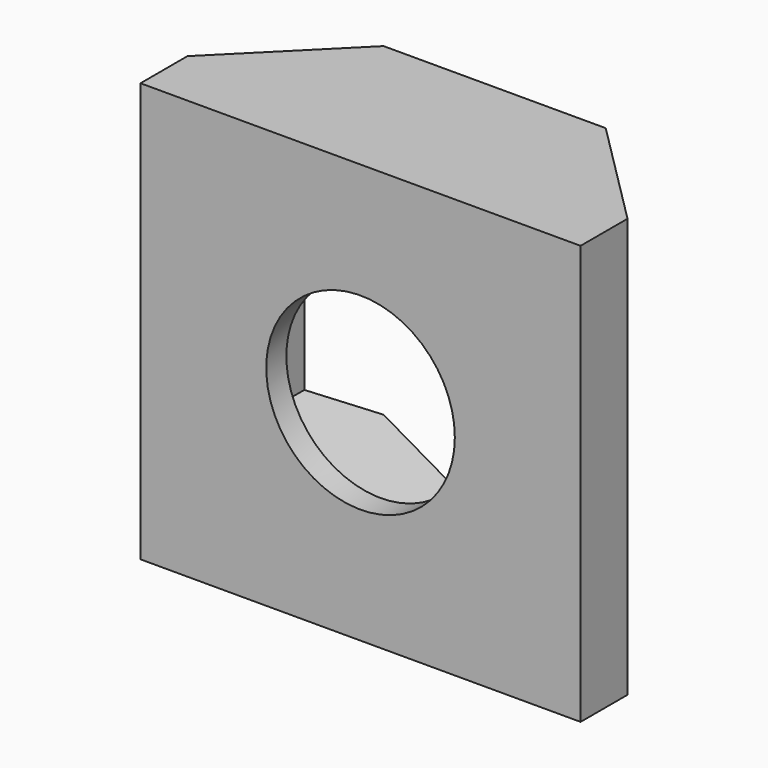
from build123d import *

# Parameters (mm, degrees)
F1_DEPTH = 10
F3_START = -0.6
F2_R     = 2.25
F3_DEPTH = 3.401
F4_DEPTH = 0.6


with BuildPart() as f1:
    # F0 (on Top) → F1 (new body)
    with BuildSketch(Plane.XY):
        Polygon((0, 1.4), (0, 0), (10.5, 0), (10.5, 1.4), (7.9, 4), (2.6, 4), align=None)
    extrude(amount=F1_DEPTH)

    # F2 (on face) → F3 (cut)
    with BuildSketch(Plane.XZ.offset(F3_START)):
        Polygon((8.95, 2.863804004), (8.95, 7.136195996), (5.25, 9.272391992), (1.55, 7.136195996), (1.55, 2.863804004), (5.25, 0.727608008), align=None)
        with Locations((5.25, 5)):
            Circle(F2_R, mode=Mode.SUBTRACT)
        with Locations((5.25, 5)):
            Circle(F2_R)
    extrude(amount=-F3_DEPTH, mode=Mode.SUBTRACT)

    # F2 (on face) → F4 (cut, through all)
    with BuildSketch(Plane.XZ):
        with Locations((5.25, 5)):
            Circle(F2_R)
    extrude(amount=-F4_DEPTH, mode=Mode.SUBTRACT)


solid = f1.part
